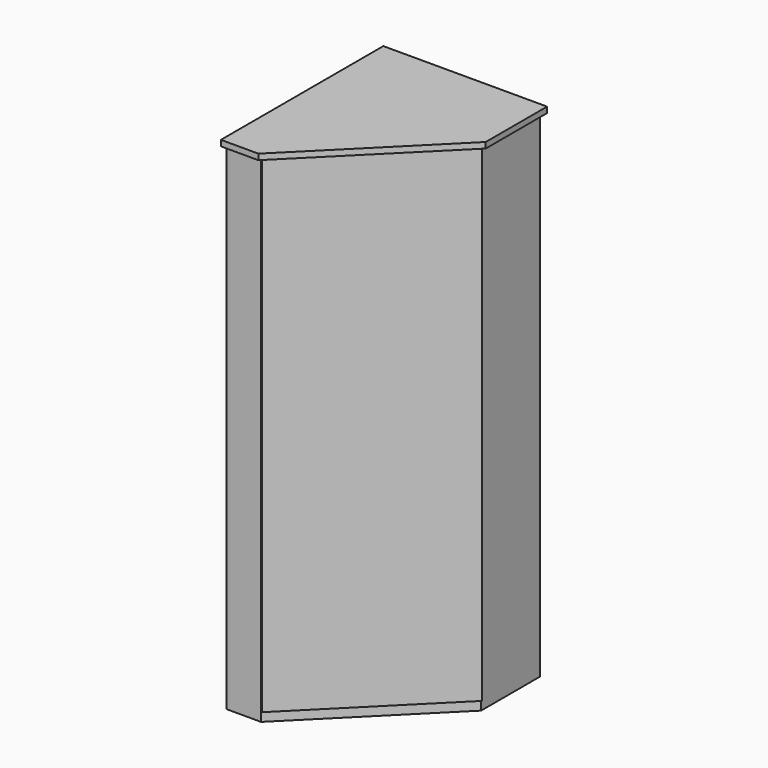
from build123d import *

# Parameters (mm, degrees)
F2_DEPTH = 2160
F3_W     = 749.5331880577
F3_H     = 2110
F4_DEPTH = 25
F6_DEPTH = 25


with BuildPart() as f2:
    # F1 (on Top) → F2 (new body)
    with BuildSketch(Plane.XY):
        Polygon((680, 0), (0, 0), (0, -850), (150, -850), (680, -320), align=None)
    extrude(amount=F2_DEPTH)


with BuildPart() as f4:
    # F3 (on face) → F4 (new body)
    with BuildSketch(Plane(origin=(500, -500, 0), x_dir=(0.7071067812, 0.7071067812, 0), z_dir=(0.7071067812, -0.7071067812, 0))):
        with Locations((-120.2081528017, 1105)):
            Rectangle(F3_W, F3_H)
    extrude(amount=F4_DEPTH)


with BuildPart() as f6:
    # F5 (on face) → F6 (new body)
    with BuildSketch(Plane.XY.offset(2160)):
        Polygon((162.4264068712, -880), (710, -332.4264068712), (710, 0), (0, 0), (0, -880), align=None)
    extrude(amount=F6_DEPTH)


solid = Compound([f2.part, f4.part, f6.part])
